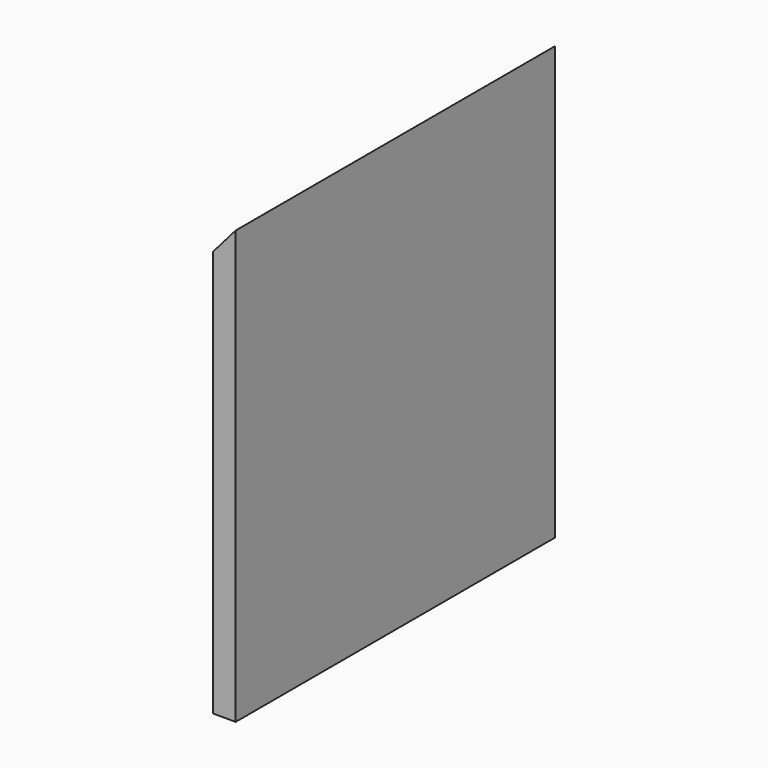
from build123d import *

# Parameters (mm, degrees)
F0_W     = 3556
F0_H     = 4707.636
F1_DEPTH = 203.2
F3_DEPTH = 3556
F5_ANGLE = 180


with BuildPart() as f1:
    # F0 (on Right) → F1 (new body)
    with BuildSketch(Plane.YZ):
        Rectangle(F0_W, F0_H)
    extrude(amount=F1_DEPTH)

    # F2 (on face) → F3 (cut)
    with BuildSketch(Plane.XZ.offset(1778)):
        Polygon((0, 1499.43686), (203.2, 1265.682), (203.2, 2353.818), (0, 2353.818), align=None)
    extrude(amount=-F3_DEPTH, mode=Mode.SUBTRACT)


with BuildPart() as f1_1:
    # F5: moved
    add(f1.part.rotate(Axis((0, 0, -714.977086), (0, 0, -1)), F5_ANGLE))


solid = f1_1.part
